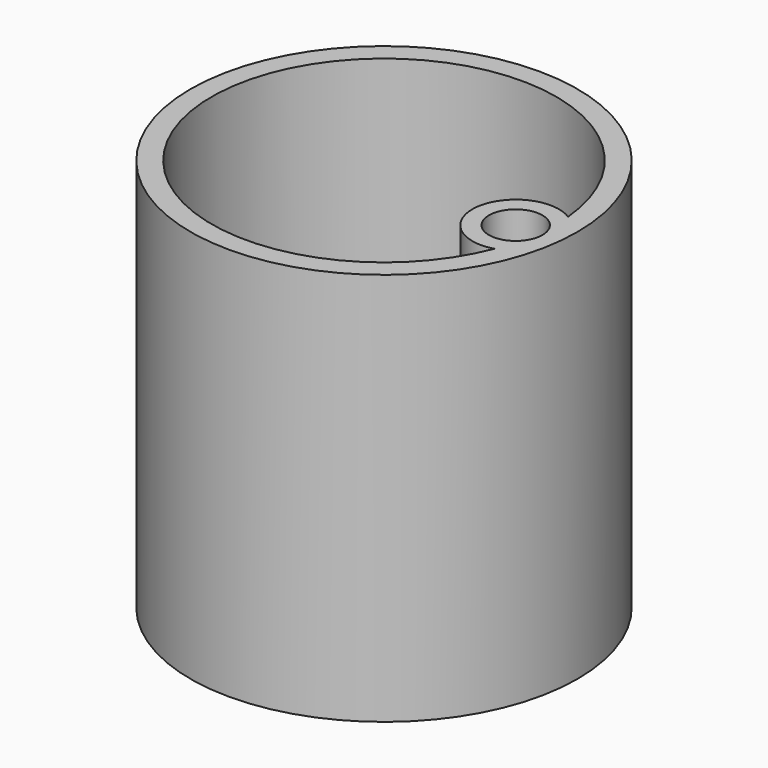
from build123d import *

# Parameters (mm, degrees)
F0_R     = 46.7364231705
F1_DEPTH = 90
F2_DEPTH = 5.08


with BuildPart() as f1:
    # F0 (on Top) → F1 (new body)
    with BuildSketch(Plane.XY):
        Circle(F0_R)
        with BuildLine():
            ThreePointArc((41.4891328442, 3.7295371287), (45.0664141773, -0.0645136707), (46.3666215521, -5.1143873312))
            ThreePointArc((46.3666215521, -5.1143873312), (44.2629059571, -11.4048751184), (38.7982247453, -15.1642786828))
            ThreePointArc((38.7982247453, -15.1642786828), (-41.2402596519, 5.8735487741), (41.4891328442, 3.7295371287))
        make_face(mode=Mode.SUBTRACT)
        with BuildLine():
            ThreePointArc((41.6564231705, 0), (41.6145795731, 1.8666435953), (41.4891328442, 3.7295371287))
            ThreePointArc((41.4891328442, 3.7295371287), (25.5576831489, -3.6399940203), (38.7982247453, -15.1642786828))
            ThreePointArc((38.7982247453, -15.1642786828), (39.759290847, -12.4280482257), (40.5276479823, -9.631580368))
            ThreePointArc((40.5276479823, -9.631580368), (29.5146981634, -4.2035627486), (41.6051590045, -2.0659950561))
            ThreePointArc((41.6051590045, -2.0659950561), (41.6436051569, -1.0333154875), (41.6564231705, 0))
        make_face()
        with BuildLine():
            ThreePointArc((38.7982247453, -15.1642786828), (44.2629059571, -11.4048751184), (46.3666215521, -5.1143873312))
            ThreePointArc((46.3666215521, -5.1143873312), (45.0664141773, -0.0645136707), (41.4891328442, 3.7295371287))
            ThreePointArc((41.4891328442, 3.7295371287), (41.6145795731, 1.8666435953), (41.6564231705, 0))
            ThreePointArc((41.6564231705, 0), (41.6436051569, -1.0333154875), (41.6051590045, -2.0659950561))
            ThreePointArc((41.6051590045, -2.0659950561), (42.1756319745, -3.5429881955), (42.3696755259, -5.1143873312))
            ThreePointArc((42.3696755259, -5.1143873312), (41.8914681009, -7.5535520654), (40.5276479823, -9.631580368))
            ThreePointArc((40.5276479823, -9.631580368), (39.759290847, -12.4280482257), (38.7982247453, -15.1642786828))
        make_face()
    extrude(amount=F1_DEPTH)

    # F0 (on Top) → F2 (join)
    with BuildSketch(Plane.XY):
        Circle(F0_R)
        with BuildLine():
            ThreePointArc((41.4891328442, 3.7295371287), (45.0664141773, -0.0645136707), (46.3666215521, -5.1143873312))
            ThreePointArc((46.3666215521, -5.1143873312), (44.2629059571, -11.4048751184), (38.7982247453, -15.1642786828))
            ThreePointArc((38.7982247453, -15.1642786828), (-41.2402596519, 5.8735487741), (41.4891328442, 3.7295371287))
        make_face(mode=Mode.SUBTRACT)
        with BuildLine():
            ThreePointArc((41.6051590045, -2.0659950561), (29.5146981634, -4.2035627486), (40.5276479823, -9.631580368))
            ThreePointArc((40.5276479823, -9.631580368), (41.2402596519, -5.8735487741), (41.6051590045, -2.0659950561))
        make_face()
        with BuildLine():
            ThreePointArc((41.6051590045, -2.0659950561), (41.2402596519, -5.8735487741), (40.5276479823, -9.631580368))
            ThreePointArc((40.5276479823, -9.631580368), (41.8914681009, -7.5535520654), (42.3696755259, -5.1143873312))
            ThreePointArc((42.3696755259, -5.1143873312), (42.1756319745, -3.5429881955), (41.6051590045, -2.0659950561))
        make_face()
        with BuildLine():
            ThreePointArc((38.7982247453, -15.1642786828), (25.5576831489, -3.6399940203), (41.4891328442, 3.7295371287))
            ThreePointArc((41.4891328442, 3.7295371287), (-41.2402596519, 5.8735487741), (38.7982247453, -15.1642786828))
        make_face()
        with BuildLine():
            ThreePointArc((41.6564231705, 0), (41.6145795731, 1.8666435953), (41.4891328442, 3.7295371287))
            ThreePointArc((41.4891328442, 3.7295371287), (25.5576831489, -3.6399940203), (38.7982247453, -15.1642786828))
            ThreePointArc((38.7982247453, -15.1642786828), (39.759290847, -12.4280482257), (40.5276479823, -9.631580368))
            ThreePointArc((40.5276479823, -9.631580368), (29.5146981634, -4.2035627486), (41.6051590045, -2.0659950561))
            ThreePointArc((41.6051590045, -2.0659950561), (41.6436051569, -1.0333154875), (41.6564231705, 0))
        make_face()
        with BuildLine():
            ThreePointArc((38.7982247453, -15.1642786828), (44.2629059571, -11.4048751184), (46.3666215521, -5.1143873312))
            ThreePointArc((46.3666215521, -5.1143873312), (45.0664141773, -0.0645136707), (41.4891328442, 3.7295371287))
            ThreePointArc((41.4891328442, 3.7295371287), (41.6145795731, 1.8666435953), (41.6564231705, 0))
            ThreePointArc((41.6564231705, 0), (41.6436051569, -1.0333154875), (41.6051590045, -2.0659950561))
            ThreePointArc((41.6051590045, -2.0659950561), (42.1756319745, -3.5429881955), (42.3696755259, -5.1143873312))
            ThreePointArc((42.3696755259, -5.1143873312), (41.8914681009, -7.5535520654), (40.5276479823, -9.631580368))
            ThreePointArc((40.5276479823, -9.631580368), (39.759290847, -12.4280482257), (38.7982247453, -15.1642786828))
        make_face()
    extrude(amount=-F2_DEPTH)


solid = f1.part
